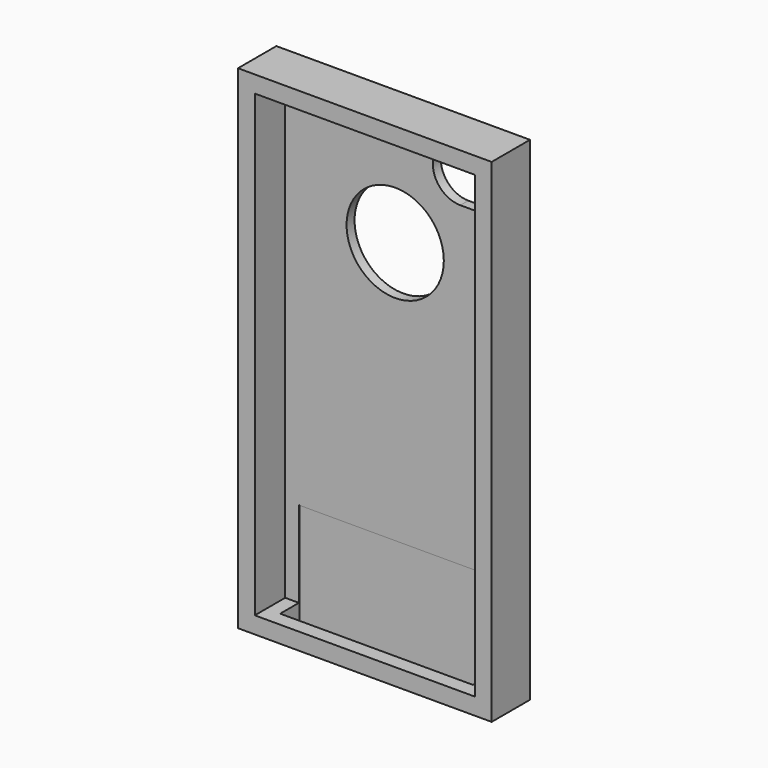
from build123d import *

# Parameters (mm, degrees)
F0_W     = 54.3052
F0_H     = 113.3856
F0_R     = 12.0015
F1_DEPTH = 2.4638
F0_W_2   = 62.611
F0_H_2   = 121.6914
F2_DEPTH = 11.8364
F3_W     = 47.5488
F3_H     = 5.9055
F4_DEPTH = 25.4


with BuildPart() as f1:
    # F0 (on Front) → F1 (new body)
    with BuildSketch(Plane.XZ):
        Rectangle(F0_W, F0_H)
        with Locations((0, 29.2735)):
            Circle(F0_R, mode=Mode.SUBTRACT)
        with BuildLine():
            ThreePointArc((16.0909, 42.672), (9.2964, 49.4665), (16.0909, 56.261))
            Line((16.0909, 56.261), (20.066003, 56.261))
            ThreePointArc((20.066003, 56.261), (26.8605, 49.466498), (20.066, 42.672))
            Line((20.066, 42.672), (16.0909, 42.672))
        make_face(mode=Mode.SUBTRACT)
    extrude(amount=F1_DEPTH)

    # F0 (on Front) → F2 (join)
    with BuildSketch(Plane.XZ):
        Rectangle(F0_W_2, F0_H_2)
        Rectangle(F0_W, F0_H, mode=Mode.SUBTRACT)
    extrude(amount=F2_DEPTH)

    # F3 (on face) → F4 (cut)
    with BuildSketch(Plane(origin=(0, 0, -60.8457), x_dir=(1, 0, 0), z_dir=(0, 0, -1))):
        with Locations((0, 5.28955)):
            Rectangle(F3_W, F3_H)
    extrude(amount=-F4_DEPTH, mode=Mode.SUBTRACT)


solid = f1.part
